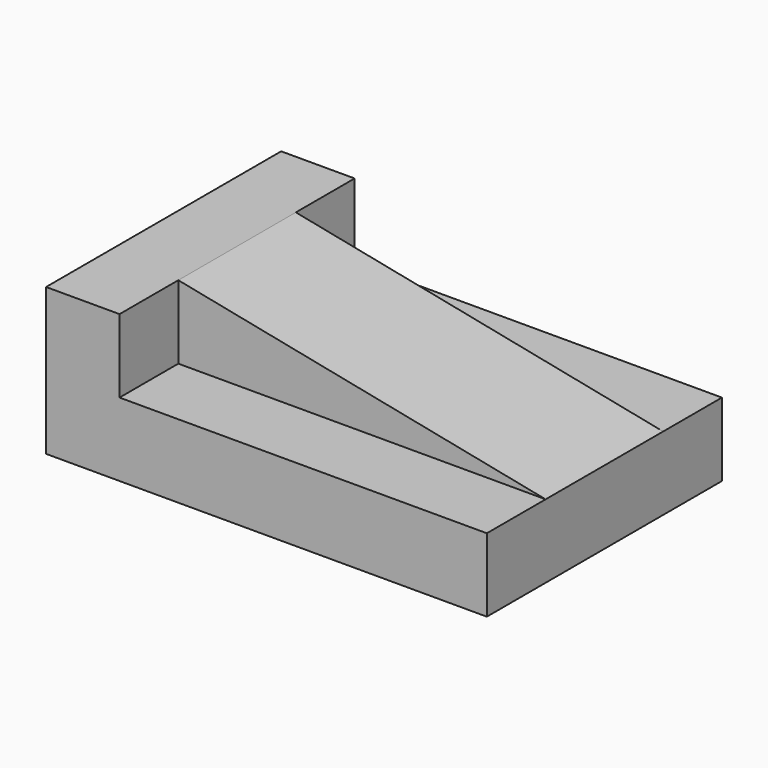
from build123d import *

# Parameters (mm, degrees)
F1_DEPTH = 101.6
F3_DEPTH = 25.4
F5_DEPTH = 25.4


with BuildPart() as f1:
    # F0 (on Front) → F1 (new body)
    with BuildSketch(Plane.XZ):
        Polygon((0, 50.8), (0, 0), (152.4, 0), (152.4, 25.4), (25.4, 25.4), (25.4, 50.8), align=None)
        Polygon((152.4, 25.4), (25.4, 50.8), (25.4, 25.4), align=None)
    extrude(amount=-F1_DEPTH)

    # F2 (on face) → F3 (cut)
    with BuildSketch(Plane.XZ):
        Polygon((152.4, 25.4), (25.4, 50.8), (25.4, 25.4), align=None)
    extrude(amount=-F3_DEPTH, mode=Mode.SUBTRACT)

    # F4 (on face) → F5 (cut)
    with BuildSketch(Plane(origin=(0, 101.6, 0), x_dir=(-1, 0, 0), z_dir=(0, 1, 0))):
        Polygon((-25.4, 25.4), (-25.4, 50.8), (-152.4, 25.4), align=None)
    extrude(amount=-F5_DEPTH, mode=Mode.SUBTRACT)


solid = f1.part
